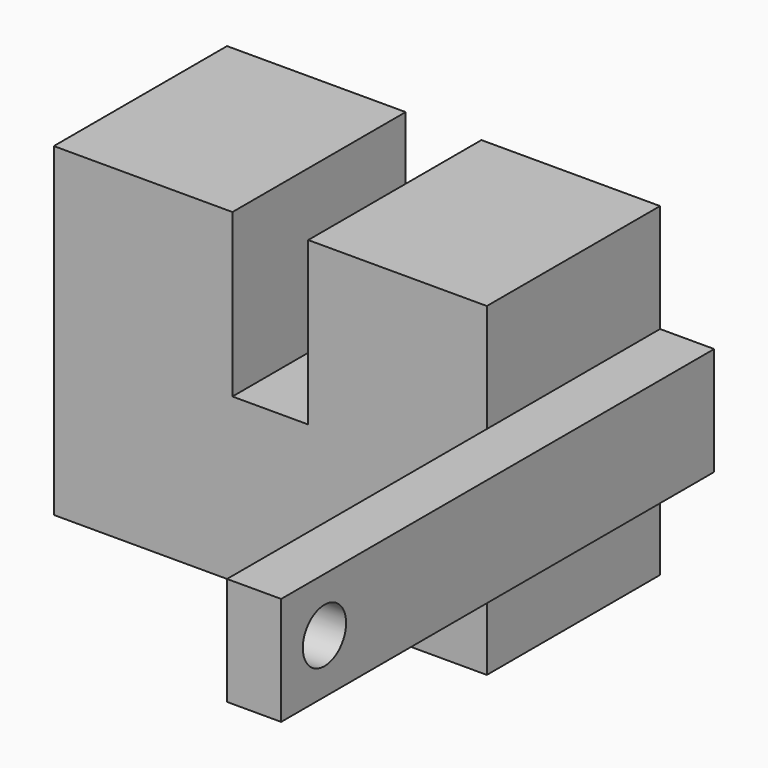
from build123d import *

# Parameters (mm, degrees)
F1_DEPTH = 25.4
F2_W     = 6.35
F2_H     = 6.35
F3_DEPTH = 63.5
F4_R     = 3.175
F5_DEPTH = 63.5


with BuildPart() as f1:
    # F0 (on Front) → F1 (new body)
    with BuildSketch(Plane.XZ):
        Polygon((-4.445, 19.05), (-25.4, 19.05), (-25.4, -19.05), (25.4, -19.05), (25.4, 19.05), (4.445, 19.05), (4.445, 0), (0, 0), (-4.445, 0), align=None)
    extrude(amount=F1_DEPTH)

    # F2 (on Front) → F3 (join)
    with BuildSketch(Plane.XZ):
        with Locations((28.575, -3.175)):
            Rectangle(F2_W, F2_H)
        with Locations((28.575, 3.175)):
            Rectangle(F2_W, F2_H)
    extrude(amount=F3_DEPTH)

    # F4 (on Right) → F5 (cut, symmetric)
    with BuildSketch(Plane.YZ):
        with Locations((-57.15, 0)):
            Circle(F4_R)
    extrude(amount=F5_DEPTH, both=True, mode=Mode.SUBTRACT)


solid = f1.part
